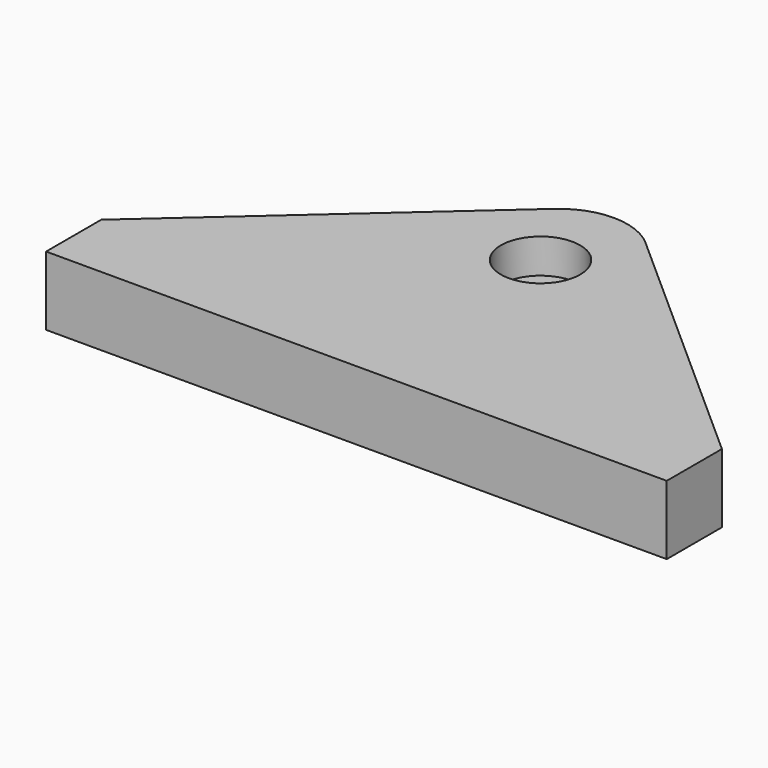
from build123d import *

# Parameters (mm, degrees)
F1_DEPTH = 20
F2_R     = 11.5
F3_DEPTH = 10


with BuildPart() as f1:
    # F0 (on Top) → F1 (new body)
    with BuildSketch(Plane.XY):
        with BuildLine():
            Line((-35.837669, 47.693254), (-112.550392, -20.495833))
            Line((-112.550392, -20.495833), (-112.550392, -40.495833))
            Line((-112.550392, -40.495833), (67.449608, -40.495833))
            Line((67.449608, -40.495833), (67.449608, -20.495833))
            Line((67.449608, -20.495833), (-9.263115, 47.693254))
            ThreePointArc((-9.263115, 47.693254), (-22.550392, 52.745068), (-35.837669, 47.693254))
        make_face()
    extrude(amount=F1_DEPTH)

    # F2 (on face) → F3 (cut)
    with BuildSketch(Plane.XY.offset(20)):
        with Locations((-22.547944, 26.245068)):
            Circle(F2_R)
    extrude(amount=-F3_DEPTH, mode=Mode.SUBTRACT)


solid = f1.part
